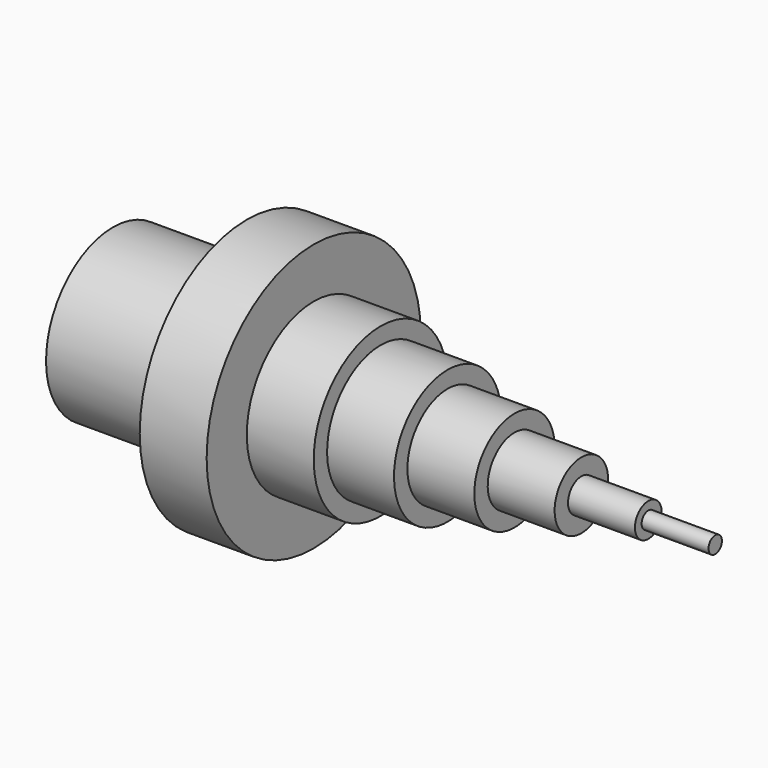
from build123d import *

# Parameters (mm, degrees)
F0_W = 20
F0_H = 2.5


with BuildPart() as f1:
    # F0 (on Front) → F1 (revolve)
    with BuildSketch(Plane.XZ):
        Polygon((0, 20), (0, 0), (20, 0), (20, 25), (20, 40), (0, 40), (0, 25), (-40, 25), (-40, 20), align=None)
        Polygon((20, 25), (20, 0), (40, 0), (40, 20), (40, 25), align=None)
        Polygon((40, 20), (40, 0), (60, 0), (60, 15), (60, 20), align=None)
        Polygon((60, 15), (60, 0), (80, 0), (80, 10), (80, 15), align=None)
        Polygon((80, 10), (80, 0), (100, 0), (100, 5), (100, 10), align=None)
        Polygon((100, 5), (100, 0), (120, 0), (120, 2.5), (120, 5), align=None)
        with Locations((130, 1.25)):
            Rectangle(F0_W, F0_H)
    revolve(axis=Axis((-20, 0, 0), (-1, 0, 0)))


solid = f1.part
